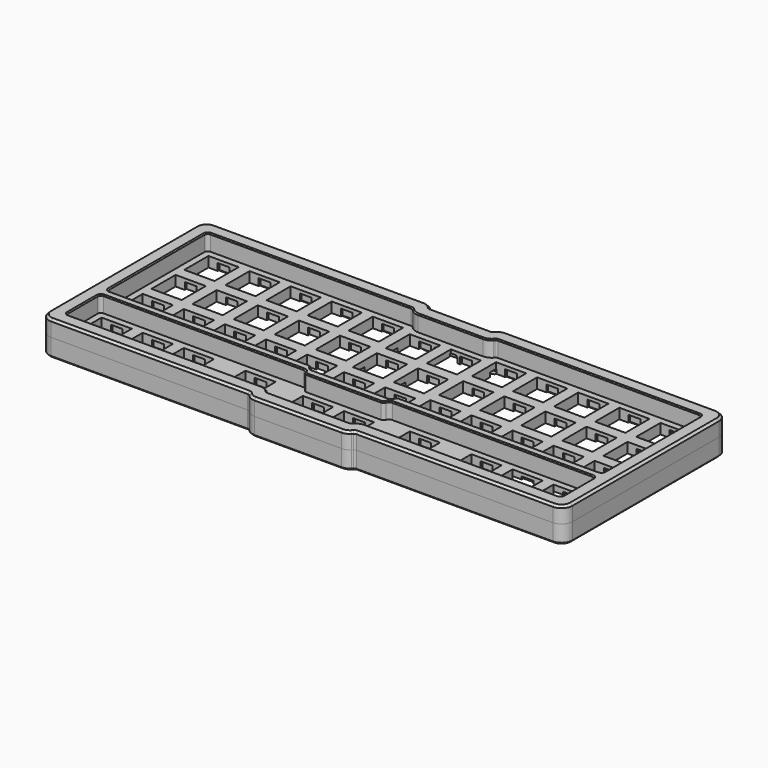
from build123d import *

# Parameters (mm, degrees)
PAD022_DEPTH    = 7.5
FILLET010_R     = 5
FILLET011_R     = 1.5
FILLET012_R     = 2
CHAMFER007_SIZE = 1
CHAMFER008_SIZE = 0.5
SKETCH075_R     = 1.55
POCKET027_DEPTH = 2
SKETCH036_W     = 121.3
SKETCH036_H     = 97.34375
PAD015_DEPTH    = 4.75
SKETCH037_W     = 14
SKETCH037_H     = 14
POCKET022_DEPTH = 4.75
SKETCH038_W     = 14
SKETCH038_H     = 14
POCKET023_DEPTH = 4.75
SKETCH039_W     = 14
SKETCH039_H     = 14
SKETCH039_W_2   = 7
SKETCH039_H_2   = 15
POCKET024_DEPTH = 4.75
POCKET_DEPTH    = 4.75
PAD_DEPTH       = 3.6
POCKET025_DEPTH = 10
SKETCH074_W     = 2.5
SKETCH074_H     = 30
POCKET026_DEPTH = 9
SKETCH076_R     = 1.55
POCKET028_DEPTH = 3
SKETCH078_W     = 7
SKETCH078_H     = 15
SKETCH078_W_2   = 14
SKETCH078_H_2   = 14
PAD024_DEPTH    = 4.75
SKETCH079_W     = 14
SKETCH079_H     = 14
POCKET029_DEPTH = 4.75
SKETCH077_W     = 5.5
SKETCH077_H     = 16
POCKET030_DEPTH = 3.25
FILLET_R        = 5
FILLET013_R     = 1.5
FILLET014_R     = 1.5
CHAMFER_SIZE    = 0.75
SKETCH080_W     = 0.240066
SKETCH080_H     = 0.75
POCKET031_DEPTH = 10
SKETCH081_W     = 195.55
SKETCH081_H     = 4.5
SKETCH081_W_2   = 157.45
SKETCH081_W_3   = 81.25
SKETCH081_W_4   = 2.7
SKETCH081_H_2   = 24.1
SKETCH081_W_5   = 5.05
SKETCH081_H_3   = 11.3
SKETCH081_W_6   = 5.3
SKETCH081_H_4   = 4.8
POCKET032_DEPTH = 2


with BuildPart() as body008:
    # Sketch060 → Pad022 (new body)
    with BuildSketch(Plane.XY):
        Polygon((-121.3, 48.671875), (-121.3, -46.290625), (-24.623638, -46.290625), (-22.242388, -48.671875), (0, -48.671875), (0, -42.171875), (-19.55, -42.171875), (-21.93125, -39.790625), (-114.8, -39.790625), (-114.8, -19.740625), (-18.937589, -19.740625), (-18.55, -22.121875), (0, -22.121875), (0, -18.359375), (-19.162411, -18.359375), (-19.55, -15.978125), (-114.8, -15.978125), (-114.8, 42.171875), (-19.55, 42.171875), (-17.16875, 39.790625), (0, 39.790625), (0, 46.290625), (-14.476362, 46.290625), (-16.857612, 48.671875), align=None)
    extrude(amount=PAD022_DEPTH)

    # Fillet010
    fillet010_edges = [body008.edges().sort_by_distance(p)[0] for p in [
        (-121.3, -46.290625, 3.75),
        (-22.242388, -48.671875, 3.75),
        (-121.3, 48.671875, 3.75),
        (-16.857612, 48.671875, 3.75),
        (-21.93125, -39.790625, 3.75),
        (-17.16875, 39.790625, 3.75),
    ]]
    fillet(fillet010_edges, radius=FILLET010_R)

    # Fillet011
    fillet011_edges = [body008.edges().sort_by_distance(p)[0] for p in [
        (-114.8, -15.978125, 3.75),
        (-14.476362, 46.290625, 3.75),
        (-19.55, -15.978125, 3.75),
        (-18.55, -22.121875, 3.75),
        (-19.55, -42.171875, 3.75),
        (-24.623638, -46.290625, 3.75),
        (-19.55, 42.171875, 3.75),
        (-114.8, 42.171875, 3.75),
        (-114.8, -39.790625, 3.75),
        (-114.8, -19.740625, 3.75),
    ]]
    fillet(fillet011_edges, radius=FILLET011_R)

    # Fillet012
    fillet012_edges = [body008.edges().sort_by_distance(p)[0] for p in [
        (-18.937589, -19.740625, 3.75),
        (-19.162411, -18.359375, 3.75),
    ]]
    fillet(fillet012_edges, radius=FILLET012_R)

    # Chamfer007
    chamfer007_edges = [body008.edges().sort_by_distance(p)[0] for p in [
        (-70.772479, -46.290625, 7.5),
    ]]
    chamfer(chamfer007_edges, length=CHAMFER007_SIZE)

    # Chamfer008
    chamfer008_edges = [body008.edges().sort_by_distance(p)[0] for p in [
        (-66.945397, -19.740625, 7.5),
        (-114.8, 13.096875, 7.5),
    ]]
    chamfer(chamfer008_edges, length=CHAMFER008_SIZE)

    # Sketch075 (on Face7 of Chamfer008) → Pocket027 (cut)
    with BuildSketch(Plane(origin=(0, 0, 0), x_dir=(1, 0, 0), z_dir=(0, 0, -1))):
        with Locations((-117.098097, 42.088722)):
            Circle(SKETCH075_R)
        with Locations((-40.433333, 42.790625)):
            Circle(SKETCH075_R)
        with Locations((-117.098097, -44.469972)):
            Circle(SKETCH075_R)
        with Locations((-40.433333, -45.171875)):
            Circle(SKETCH075_R)
        with Locations((-117.8, 0)):
            Circle(SKETCH075_R)
    extrude(amount=-POCKET027_DEPTH, mode=Mode.SUBTRACT)


with BuildPart() as top:
    # Part__Mirroring: instance of Body008
    add(body008.part.mirror(Plane(origin=(0, 0, 0), x_dir=(0, -1, 0), z_dir=(1, 0, 0))))

    # Fusion: union Body008
    add(body008.part)


with BuildPart() as plate:
    # Sketch036 → Pad015 (new body)
    with BuildSketch(Plane.XY):
        with Locations((-60.65, 0)):
            Rectangle(SKETCH036_W, SKETCH036_H)
    extrude(amount=-PAD015_DEPTH)

    # Sketch037 → Pocket022 (cut)
    with BuildSketch(Plane.XY):
        with Locations((-9.525, 29.790625)):
            Rectangle(SKETCH037_W, SKETCH037_H)
        with Locations((-28.575, 32.171875)):
            Rectangle(SKETCH037_W, SKETCH037_H)
        with Locations((-47.625, 32.171875)):
            Rectangle(SKETCH037_W, SKETCH037_H)
        with Locations((-66.675, 32.171875)):
            Rectangle(SKETCH037_W, SKETCH037_H)
        with Locations((-85.725, 32.171875)):
            Rectangle(SKETCH037_W, SKETCH037_H)
        with Locations((-85.725, 13.121875)):
            Rectangle(SKETCH037_W, SKETCH037_H)
        with Locations((-66.675, 13.121875)):
            Rectangle(SKETCH037_W, SKETCH037_H)
        with Locations((-9.525, 10.740625)):
            Rectangle(SKETCH037_W, SKETCH037_H)
        with Locations((-47.625, 13.121875)):
            Rectangle(SKETCH037_W, SKETCH037_H)
        with Locations((-28.575, 13.121875)):
            Rectangle(SKETCH037_W, SKETCH037_H)
        with Locations((-9.525, -8.309375)):
            Rectangle(SKETCH037_W, SKETCH037_H)
        with Locations((-28.575, -5.928125)):
            Rectangle(SKETCH037_W, SKETCH037_H)
        with Locations((-47.625, -5.928125)):
            Rectangle(SKETCH037_W, SKETCH037_H)
        with Locations((-66.675, -5.928125)):
            Rectangle(SKETCH037_W, SKETCH037_H)
        with Locations((-85.725, -5.928125)):
            Rectangle(SKETCH037_W, SKETCH037_H)
        with Locations((-104.775, 32.171875)):
            Rectangle(SKETCH037_W, SKETCH037_H)
        with Locations((-104.775, 13.121875)):
            Rectangle(SKETCH037_W, SKETCH037_H)
        with Locations((-104.775, -5.928125)):
            Rectangle(SKETCH037_W, SKETCH037_H)
        with Locations((-104.775, -29.740625)):
            Rectangle(SKETCH037_W, SKETCH037_H)
        with Locations((-85.725, -29.740625)):
            Rectangle(SKETCH037_W, SKETCH037_H)
    extrude(amount=-POCKET022_DEPTH, mode=Mode.SUBTRACT)

    # Sketch038 → Pocket023 (cut)
    with BuildSketch(Plane.XY):
        with Locations((-47.625, -29.790625)):
            Rectangle(SKETCH038_W, SKETCH038_H)
    extrude(amount=-POCKET023_DEPTH, mode=Mode.SUBTRACT)

    # Sketch039 → Pocket024 (cut)
    with BuildSketch(Plane.XY):
        with Locations((-47.625, -29.790625)):
            Rectangle(SKETCH039_W, SKETCH039_H)
        with Locations((-66.675, -28.290625)):
            Rectangle(SKETCH039_W_2, SKETCH039_H_2)
        with Locations((-28.575, -28.290625)):
            Rectangle(SKETCH039_W_2, SKETCH039_H_2)
        with Locations((-9.525, -32.171875)):
            Rectangle(SKETCH039_W, SKETCH039_H)
    extrude(amount=-POCKET024_DEPTH, mode=Mode.SUBTRACT)

    # Sketch (on Face4 of Pocket024) → Pocket (cut)
    with BuildSketch(Plane.XY):
        Polygon((-121.3, 48.671875), (-16.857612, 48.671875), (-14.476362, 46.290625), (0, 46.290625), (0, 53.671875), (-126.3, 53.671875), (-126.3, -53.671875), (0, -53.671875), (0, -48.671875), (-22.242388, -48.671875), (-24.623638, -46.290625), (-121.3, -46.290625), align=None)
    extrude(amount=-POCKET_DEPTH, mode=Mode.SUBTRACT)

    # Sketch062 (on Face4 of Pocket) → Pad (join)
    with BuildSketch(Plane(origin=(0, 0, -4.75), x_dir=(1, 0, 0), z_dir=(0, 0, -1))):
        Polygon((-121.3, 46.290625), (-24.623638, 46.290625), (-22.242388, 48.671875), (0, 48.671875), (0, 45.171875), (-20.792641, 45.171875), (-23.173891, 42.790625), (-117.8, 42.790625), (-117.8, -45.171875), (-18.307359, -45.171875), (-15.926109, -42.790625), (0, -42.790625), (0, -46.290625), (-14.476362, -46.290625), (-16.857612, -48.671875), (-121.3, -48.671875), align=None)
    extrude(amount=PAD_DEPTH)

    # Sketch073 (on Face110 of Pad) → Pocket025 (cut)
    with BuildSketch(Plane(origin=(0, 46.290625, 0), x_dir=(-1, 0, 0), z_dir=(0, 1, 0))):
        with BuildLine():
            Line((0, -1.6), (4.5, -1.6))
            ThreePointArc((5.5, -2.6), (5.207107, -1.892893), (4.5, -1.6))
            Line((5.5, -2.6), (5.5, -4.1))
            ThreePointArc((4.5, -5.1), (5.207107, -4.807107), (5.5, -4.1))
            Line((4.5, -5.1), (0, -5.1))
            Line((0, -5.1), (0, -1.6))
        make_face()
    extrude(amount=-POCKET025_DEPTH, mode=Mode.SUBTRACT)

    # Sketch074 (on Face107 of Pocket025) → Pocket026 (cut)
    with BuildSketch(Plane.YZ):
        with Locations((44.040625, -19)):
            Rectangle(SKETCH074_W, SKETCH074_H)
    extrude(amount=-POCKET026_DEPTH, mode=Mode.SUBTRACT)

    # Sketch076 (on Face1 of Pocket026) → Pocket028 (cut)
    with BuildSketch(Plane.XY):
        with Locations((-117.098097, 44.469972)):
            Circle(SKETCH076_R)
        with Locations((-40.433333, 45.171875)):
            Circle(SKETCH076_R)
        with Locations((-117.8, 0)):
            Circle(SKETCH076_R)
        with Locations((-117.098097, -42.088722)):
            Circle(SKETCH076_R)
        with Locations((-40.433333, -42.790625)):
            Circle(SKETCH076_R)
    extrude(amount=-POCKET028_DEPTH, mode=Mode.SUBTRACT)

    # Sketch078 (on Face1 of Pocket028) → Pad024 (join)
    with BuildSketch(Plane.XY):
        with Locations((-66.675, -28.290625)):
            Rectangle(SKETCH078_W, SKETCH078_H)
        with Locations((-47.625, -29.790625)):
            Rectangle(SKETCH078_W_2, SKETCH078_H_2)
        with Locations((-28.575, -28.290625)):
            Rectangle(SKETCH078_W, SKETCH078_H)
    extrude(amount=-PAD024_DEPTH)

    # Sketch079 (on Face124 of Pad024) → Pocket029 (cut)
    with BuildSketch(Plane(origin=(0, 0, -4.75), x_dir=(1, 0, 0), z_dir=(0, 0, -1))):
        with Locations((-66.675, 29.740625)):
            Rectangle(SKETCH079_W, SKETCH079_H)
        with Locations((-38.1, 29.740625)):
            Rectangle(SKETCH079_W, SKETCH079_H)
    extrude(amount=-POCKET029_DEPTH, mode=Mode.SUBTRACT)

    # Sketch077 (on Face124 of Pocket029) → Pocket030 (cut)
    with BuildSketch(Plane(origin=(0, 0, -4.75), x_dir=(1, 0, 0), z_dir=(0, 0, -1))):
        with Locations((-104.775, 29.740625)):
            Rectangle(SKETCH077_W, SKETCH077_H)
        with Locations((-85.725, 29.740625)):
            Rectangle(SKETCH077_W, SKETCH077_H)
        with Locations((-104.775, 5.928125)):
            Rectangle(SKETCH077_W, SKETCH077_H)
        with Locations((-85.725, 5.928125)):
            Rectangle(SKETCH077_W, SKETCH077_H)
        with Locations((-104.775, -13.121875)):
            Rectangle(SKETCH077_W, SKETCH077_H)
        with Locations((-104.775, -32.171875)):
            Rectangle(SKETCH077_W, SKETCH077_H)
        with Locations((-85.725, -32.171875)):
            Rectangle(SKETCH077_W, SKETCH077_H)
        with Locations((-85.725, -13.121875)):
            Rectangle(SKETCH077_W, SKETCH077_H)
        with Locations((-66.675, 29.740625)):
            Rectangle(SKETCH077_W, SKETCH077_H)
        with Locations((-66.675, 5.928125)):
            Rectangle(SKETCH077_W, SKETCH077_H)
        with Locations((-66.675, -13.121875)):
            Rectangle(SKETCH077_W, SKETCH077_H)
        with Locations((-66.675, -32.171875)):
            Rectangle(SKETCH077_W, SKETCH077_H)
        with Locations((-47.625, -32.171875)):
            Rectangle(SKETCH077_W, SKETCH077_H)
        with Locations((-47.625, -13.121875)):
            Rectangle(SKETCH077_W, SKETCH077_H)
        with Locations((-47.625, 5.928125)):
            Rectangle(SKETCH077_W, SKETCH077_H)
        with Locations((-28.575, 5.928125)):
            Rectangle(SKETCH077_W, SKETCH077_H)
        with Locations((-28.575, -13.121875)):
            Rectangle(SKETCH077_W, SKETCH077_H)
        with Locations((-28.575, -32.171875)):
            Rectangle(SKETCH077_W, SKETCH077_H)
        with Locations((-9.525, 32.121875)):
            Rectangle(SKETCH077_W, SKETCH077_H)
        with Locations((-9.525, 8.309375)):
            Rectangle(SKETCH077_W, SKETCH077_H)
        with Locations((-9.525, -10.740625)):
            Rectangle(SKETCH077_W, SKETCH077_H)
        with Locations((-9.525, -29.790625)):
            Rectangle(SKETCH077_W, SKETCH077_H)
        with Locations((-38.1, 29.740625)):
            Rectangle(SKETCH077_W, SKETCH077_H)
    extrude(amount=-POCKET030_DEPTH, mode=Mode.SUBTRACT)

    # Fillet
    fillet_edges = [plate.edges().sort_by_distance(p)[0] for p in [
        (-121.3, 48.671875, -4.175),
        (-121.3, -46.290625, -4.175),
        (-22.242388, -48.671875, -4.175),
        (-16.857612, 48.671875, -4.175),
        (-23.173891, -42.790625, -6.55),
        (-15.926109, 42.790625, -6.55),
    ]]
    fillet(fillet_edges, radius=FILLET_R)

    # Fillet013
    fillet013_edges = [plate.edges().sort_by_distance(p)[0] for p in [
        (-14.476362, 46.290625, -4.175),
        (-24.623638, -46.290625, -4.175),
        (-20.792641, -45.171875, -6.55),
        (-18.307359, 45.171875, -6.55),
    ]]
    fillet(fillet013_edges, radius=FILLET013_R)

    # Fillet014
    fillet014_edges = [plate.edges().sort_by_distance(p)[0] for p in [
        (-117.8, 45.171875, -6.55),
        (-117.8, -42.790625, -6.55),
    ]]
    fillet(fillet014_edges, radius=FILLET014_R)

    # Chamfer
    chamfer_edges = [plate.edges().sort_by_distance(p)[0] for p in [
        (-70.772479, -46.290625, -8.35),
        (-5.5, 46.290625, -3.35),
    ]]
    chamfer(chamfer_edges, length=CHAMFER_SIZE)

    # Sketch080 (on Face39 of Chamfer) → Pocket031 (cut)
    with BuildSketch(Plane(origin=(0, 42.790625, 0), x_dir=(-1, 0, 0), z_dir=(0, 1, 0))):
        with Locations((5.379967, -4.375)):
            Rectangle(SKETCH080_W, SKETCH080_H)
    extrude(amount=-POCKET031_DEPTH, mode=Mode.SUBTRACT)


with BuildPart() as bottom:
    # Part__Mirroring002: instance of plate
    add(plate.part.mirror(Plane(origin=(0, 0, 0), x_dir=(0, -1, 0), z_dir=(1, 0, 0))))

    # Fusion002: union plate
    add(plate.part)

    # Sketch081 (on Face117 of BaseFeature) → Pocket032 (cut)
    with BuildSketch(Plane(origin=(0, 0, -4.75), x_dir=(1, 0, 0), z_dir=(0, 0, -1))):
        with Locations((0, 34.490625)):
            Rectangle(SKETCH081_W, SKETCH081_H)
        with Locations((-19.05, 10.678125)):
            Rectangle(SKETCH081_W_2, SKETCH081_H)
        Polygon((73.675, 22.740625), (73.675, 8.428125), (78.725, 8.428125), (78.725, 12.928125), (92.725, 12.928125), (92.725, 5.928125), (97.775, 5.928125), (97.775, 12.928125), (106.125, 12.928125), (106.125, 22.740625), align=None)
        with Locations((0, -8.371875)):
            Rectangle(SKETCH081_W, SKETCH081_H)
        with Locations((-57.15, -27.421875)):
            Rectangle(SKETCH081_W_3, SKETCH081_H)
        with Locations((57.15, -27.421875)):
            Rectangle(SKETCH081_W_3, SKETCH081_H)
        with Locations((104.775, -13.121875)):
            Rectangle(SKETCH081_W_4, SKETCH081_H_2)
        with Locations((0, -30.640625)):
            Rectangle(SKETCH081_W_5, SKETCH081_H_3)
        with Locations((19.175, -38.190625)):
            Rectangle(SKETCH081_W_6, SKETCH081_H_4)
    extrude(amount=-POCKET032_DEPTH, mode=Mode.SUBTRACT)


solid = Compound([top.part, bottom.part])
